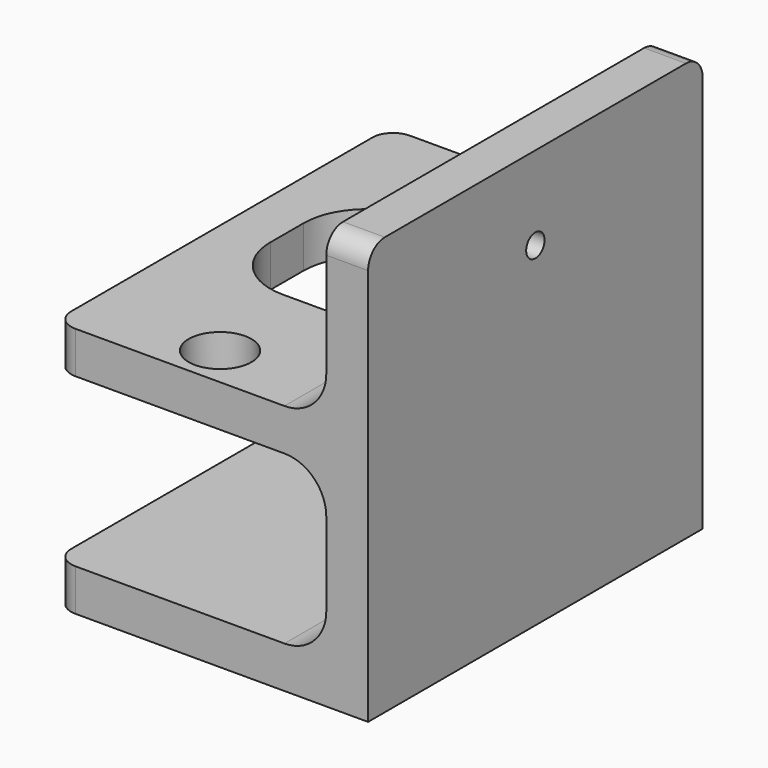
from build123d import *

# Parameters (mm, degrees)
F1_DEPTH       = 10
F2_W           = 100
F2_H           = 90
F3_DEPTH       = 10
F5_W           = 100
F5_H           = 10
F6_DEPTH       = 65
F7_D           = 5.5
F7_CSINK_D     = 10
F7_CSINK_ANGLE = 90
F8_R           = 5
F9_R           = 10
F10_R          = 7.5
F11_DEPTH      = 10


with BuildPart() as f1:
    # F0 (on Top) → F1 (new body)
    with BuildSketch(Plane.XY):
        with BuildLine():
            Line((-11.5, 50), (-37.5, 50))
            Line((-37.5, 50), (-37.5, -50))
            Line((-37.5, -50), (37.5, -50))
            Line((37.5, -50), (37.5, 50))
            Line((37.5, 50), (-3.5, 50))
            Line((-3.5, 50), (-3.5, 40))
            ThreePointArc((-3.5, 40), (-7.5, 36), (-11.5, 40))
            Line((-11.5, 40), (-11.5, 50))
        make_face()
    extrude(amount=F1_DEPTH)

    # F2 (on face) → F3 (join)
    with BuildSketch(Plane.YZ.offset(37.5)):
        with Locations((0, 55)):
            Rectangle(F2_W, F2_H)
    extrude(amount=-F3_DEPTH)

    # F5 (on face) → F6 (join, through all)
    with BuildSketch(Plane(origin=(27.5, 0, 0), x_dir=(0, -1, 0), z_dir=(-1, 0, 0))):
        with Locations((0, 55)):
            Rectangle(F5_W, F5_H)
    extrude(amount=F6_DEPTH)

    # F7 (through all)
    with Locations(Plane(origin=(27.5, 0, 0), x_dir=(0, -1, 0), z_dir=(-1, 0, 0))):
        with Locations((0, 80)):
            CounterSinkHole(F7_D / 2, F7_CSINK_D / 2, counter_sink_angle=F7_CSINK_ANGLE)

    # F8
    f8_edges = [f1.edges().sort_by_distance(p)[0] for p in [
        (-37.5, 50, 5),
        (-37.5, -50, 5),
        (32.5, -50, 100),
        (32.5, 50, 100),
        (-37.5, 50, 55),
        (-37.5, -50, 55),
    ]]
    fillet(f8_edges, radius=F8_R)

    # F9
    f9_edges = [f1.edges().sort_by_distance(p)[0] for p in [
        (27.5, 0, 10),
        (27.5, 0, 60),
        (27.5, 0, 50),
    ]]
    fillet(f9_edges, radius=F9_R)

    # F10 (on face) → F11 (cut, through all)
    with BuildSketch(Plane.XY.offset(60)):
        with Locations((-5.8896257542, -40)):
            Circle(F10_R)
        with BuildLine():
            Line((-0.8896257542, 25), (-10.8896257542, 25))
            ThreePointArc((-10.8896257542, 25), (-21.496227472, 20.6066017178), (-25.8896257542, 10))
            Line((-25.8896257542, 10), (-25.8896257542, 0))
            ThreePointArc((-25.8896257542, 0), (-21.496227472, -10.6066017178), (-10.8896257542, -15))
            Line((-10.8896257542, -15), (-0.8896257542, -15))
            ThreePointArc((-0.8896257542, -15), (9.7169759636, -10.6066017178), (14.1103742458, 0))
            Line((14.1103742458, 0), (14.1103742458, 10))
            ThreePointArc((14.1103742458, 10), (9.7169759636, 20.6066017178), (-0.8896257542, 25))
        make_face()
    extrude(amount=-F11_DEPTH, mode=Mode.SUBTRACT)


solid = f1.part
